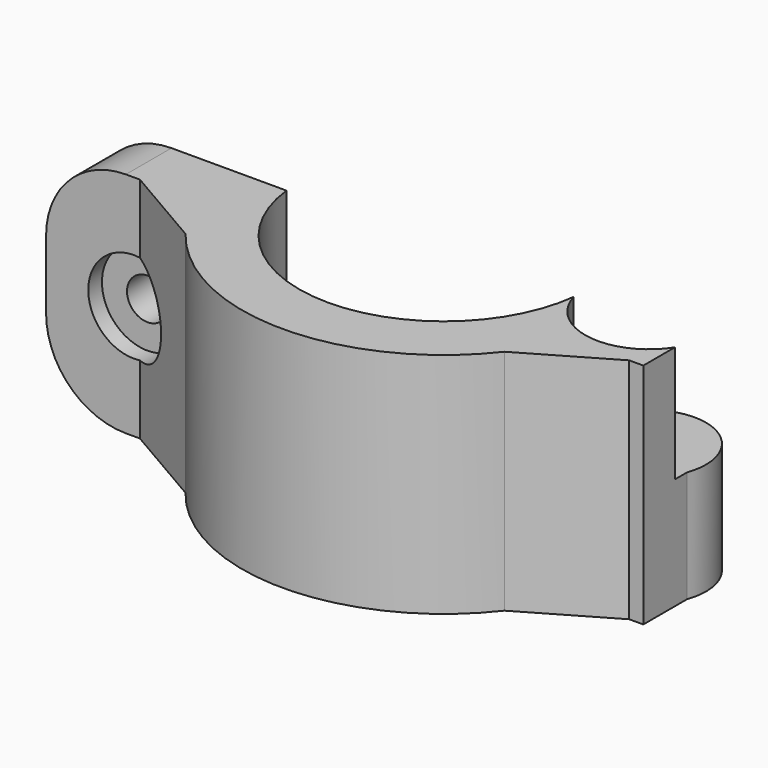
from build123d import *

# Parameters (mm, degrees)
CYLINDER010_R     = 5.6
CYLINDER010_DEPTH = 10.2
CYLINDER007_R     = 4
CYLINDER007_DEPTH = 20
CYLINDER006_R     = 1.8
CYLINDER006_DEPTH = 20
CYLINDER001_R     = 4
CYLINDER001_DEPTH = 20
CYLINDER_R        = 1.8
CYLINDER_DEPTH    = 20
PAD_DEPTH         = 20
PAD001_DEPTH      = 5
CYLINDER009_R     = 5
CYLINDER009_DEPTH = 9.8


with BuildPart() as horizontal_body_space:
    # Cylinder010 → Cylinder010 (new body)
    with BuildSketch(Plane(origin=(18, 0, 9.8), x_dir=(1, 0, 0), z_dir=(0, 0, 1))):
        Circle(CYLINDER010_R)
    extrude(amount=CYLINDER010_DEPTH)


with BuildPart() as part_mirroring002:
    # Part__Mirroring002: instance of horizontal body space
    add(horizontal_body_space.part.mirror(Plane(origin=(0, 0, 10), x_dir=(0, 1, 0), z_dir=(0, 0, 1))))


with BuildPart() as horizontal_bolt_head_hole:
    # Cylinder007 → Cylinder007 (new body)
    with BuildSketch(Plane.XY.offset(17)):
        Circle(CYLINDER007_R)
    extrude(amount=CYLINDER007_DEPTH)


with BuildPart() as horizontal_bolt_hole_fusion:
    # Cylinder006 → Cylinder006 (new body)
    with BuildSketch(Plane.XY):
        Circle(CYLINDER006_R)
    extrude(amount=CYLINDER006_DEPTH)

    # Fusion003: union horizontal bolt head hole
    add(horizontal_bolt_head_hole.part)


with BuildPart() as horizontal_bolt_hole_fusion_1:
    # Fusion003 placement: moved
    add(horizontal_bolt_hole_fusion.part.moved(Location((18, 0, 0))))


with BuildPart() as bolt_head_hole:
    # Cylinder001 → Cylinder001 (new body)
    with BuildSketch(Plane.XZ):
        Circle(CYLINDER001_R)
    extrude(amount=CYLINDER001_DEPTH)


with BuildPart() as fusion005:
    # Cylinder → Cylinder (new body)
    with BuildSketch(Plane.XZ.offset(-10)):
        Circle(CYLINDER_R)
    extrude(amount=CYLINDER_DEPTH)

    # Fusion: union bolt head hole
    add(bolt_head_hole.part)


with BuildPart() as fusion005_1:
    # Fusion placement: moved
    add(fusion005.part.moved(Location((-22, -5, 10))))

    # Fusion005: union Part__Mirroring002, horizontal bolt hole fusion
    add(part_mirroring002.part)
    add(horizontal_bolt_hole_fusion_1.part)


with BuildPart() as f_25_mm_attachment_body:
    # Sketch → Pad (new body)
    with BuildSketch(Plane.XY):
        with BuildLine():
            ThreePointArc((12.611106, 1.5), (0, 12.7), (-12.611106, 1.5))
            Line((-22.7, 1.5), (-12.611106, 1.5))
            Line((-22.7, 1.5), (-22.7, 6.5))
            Line((-22.7, 6.5), (-21.463293, 6.5))
            Line((-21.463293, 6.5), (-13.988671, 10.84468))
            ThreePointArc((13.988671, 10.84468), (0, 17.7), (-13.988671, 10.84468))
            Line((13.988671, 10.84468), (21.463293, 6.5))
            Line((21.463293, 6.5), (22.7, 6.5))
            Line((22.7, 6.5), (22.7, 1.5))
            Line((12.611106, 1.5), (22.7, 1.5))
        make_face()
    extrude(amount=PAD_DEPTH)

    # Sketch001 → Pad001 (join)
    with BuildSketch(Plane.XZ.offset(-1.5)):
        with BuildLine():
            Line((-12.611106, 20), (-22.7, 20))
            ThreePointArc((-22.7, 20), (-27.649747, 17.949747), (-29.7, 13))
            Line((-29.7, 13), (-29.7, 7))
            ThreePointArc((-29.7, 7), (-27.649747, 2.050253), (-22.7, 0))
            Line((-12.611106, 0), (-22.7, 0))
            Line((-12.611106, 20), (-12.611106, 0))
        make_face()
    extrude(amount=-PAD001_DEPTH)


with BuildPart() as part_mirroring:
    # Part__Mirroring: instance of 25 mm attachment body
    add(f_25_mm_attachment_body.part.mirror(Plane(origin=(0, 0, 0), x_dir=(1, 0, 0), z_dir=(0, 1, 0))))


with BuildPart() as horizontal_body:
    # Cylinder009 → Cylinder009 (new body)
    with BuildSketch(Plane(origin=(18, 0, 0), x_dir=(1, 0, 0), z_dir=(0, 0, 1))):
        Circle(CYLINDER009_R)
    extrude(amount=CYLINDER009_DEPTH)


with BuildPart() as f_25_mm_attachment_holed_clone:
    # Part__Mirroring001: instance of horizontal body
    add(horizontal_body.part.mirror(Plane(origin=(0, 0, 10), x_dir=(0, 1, 0), z_dir=(0, 0, 1))))

    # Fusion004: union Part__Mirroring
    add(part_mirroring.part)

    # Cut: cut Fusion005
    add(fusion005_1.part, mode=Mode.SUBTRACT)


with BuildPart() as part_mirroring004:
    # Part__Mirroring004: instance of 25 mm attachment holed clone
    add(f_25_mm_attachment_holed_clone.part.mirror(Plane(origin=(0, 0, 0), x_dir=(0, 1, 0), z_dir=(0, 0, 1))))


solid = part_mirroring004.part
